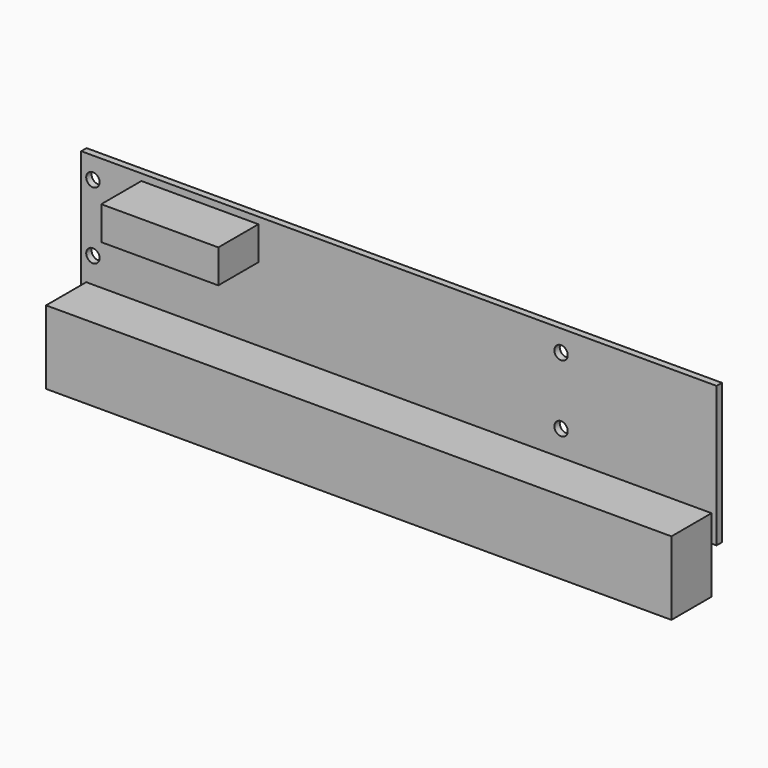
from build123d import *

# Parameters (mm, degrees)
F0_W     = 190
F0_H     = 42
F1_DEPTH = 2
F3_D     = 4
F4_W     = 35
F4_H     = 10
F4_W_2   = 187
F4_H_2   = 22
F5_DEPTH = 15


with BuildPart() as f1:
    # F0 (on Front) → F1 (new body)
    with BuildSketch(Plane.XZ):
        Rectangle(F0_W, F0_H)
    extrude(amount=F1_DEPTH)

    # F3 (through all)
    with Locations(Plane.XZ.offset(2)):
        with Locations((-91.5, 14.6134020761), (-91.5, -5.3865979239), (48.5, 14.6134020761), (48.5, -5.3865979239)):
            Hole(F3_D / 2)

    # F4 (on face) → F5 (join)
    with BuildSketch(Plane.XZ.offset(2)):
        with Locations((-59.5, 14)):
            Rectangle(F4_W, F4_H)
        with Locations((0, -24)):
            Rectangle(F4_W_2, F4_H_2)
    extrude(amount=F5_DEPTH)


solid = f1.part
